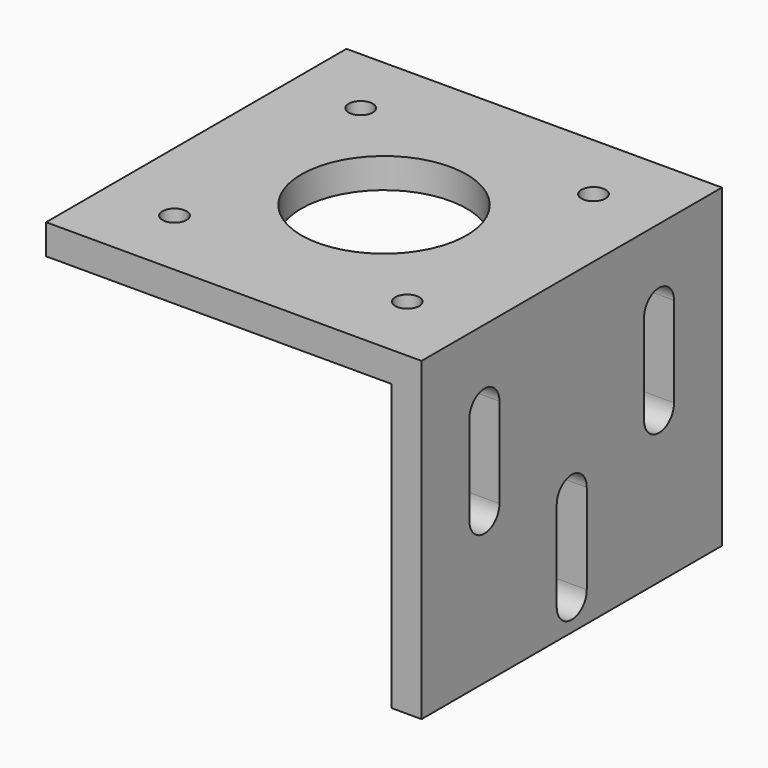
from build123d import *

# Parameters (mm, degrees)
F1_DEPTH = 25
F3_D     = 3.2
F4_D     = 22
F6_DEPTH = 4.001


with BuildPart() as f1:
    # F0 (on Front) → F1 (new body, symmetric)
    with BuildSketch(Plane.XZ):
        Polygon((0, -42), (0, 0), (-50, 0), (-50, -4), (-4, -4), (-4, -42), align=None)
    extrude(amount=F1_DEPTH, both=True)

    # F3 (through all)
    with Locations(Plane.XY):
        with Locations((-9.5, 15.5), (-9.5, -15.5), (-40.5, -15.5), (-40.5, 15.5)):
            Hole(F3_D / 2)

    # F4 (through all)
    with Locations(Plane.XY):
        with Locations((-25, 0)):
            Hole(F4_D / 2)

    # F5 (on face) → F6 (cut, through all)
    with BuildSketch(Plane(origin=(-4, 0, 0), x_dir=(0, -1, 0), z_dir=(-1, 0, 0))):
        with BuildLine():
            ThreePointArc((-17.034974, -22), (-14.534974, -24.5), (-12.034974, -22))
            Line((-12.034974, -22), (-12.034974, -10))
            ThreePointArc((-12.034974, -10), (-14.534974, -7.5), (-17.034974, -10))
            Line((-17.034974, -10), (-17.034974, -22))
        make_face()
        with BuildLine():
            ThreePointArc((-2.5, -38), (0, -40.5), (2.5, -38))
            Line((2.5, -38), (2.5, -26))
            ThreePointArc((2.5, -26), (0, -23.5), (-2.5, -26))
            Line((-2.5, -26), (-2.5, -38))
        make_face()
        with BuildLine():
            ThreePointArc((12.034974, -22), (14.534974, -24.5), (17.034974, -22))
            Line((17.034974, -22), (17.034974, -10))
            ThreePointArc((17.034974, -10), (14.534974, -7.5), (12.034974, -10))
            Line((12.034974, -10), (12.034974, -22))
        make_face()
    extrude(amount=-F6_DEPTH, mode=Mode.SUBTRACT)


solid = f1.part
